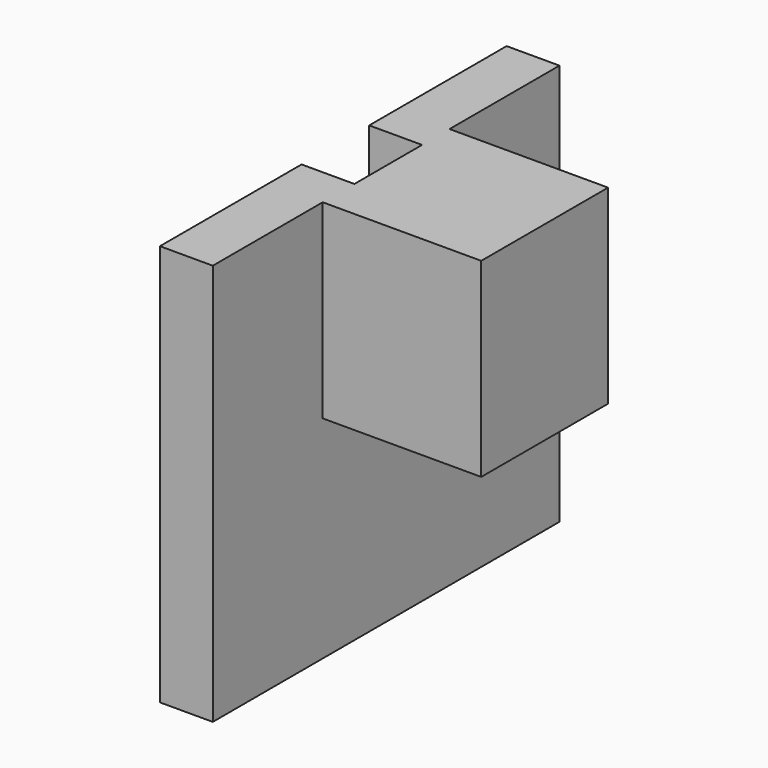
from build123d import *

# Parameters (mm, degrees)
SKETCH047_W     = 3
SKETCH047_H     = 3.6
PAD020_DEPTH    = 3
SKETCH048_W     = 8.2
SKETCH048_H     = 7.6
PAD021_DEPTH    = 1
SKETCH053_W     = 1.6
SKETCH053_H     = 1
POCKET018_DEPTH = 3


with BuildPart() as part:
    # Sketch047 → Pad020 (new body)
    with BuildSketch(Plane.YZ.offset(56.6)):
        with Locations((-2.15, 16)):
            Rectangle(SKETCH047_W, SKETCH047_H)
    extrude(amount=PAD020_DEPTH)

    # Sketch048 (on Face5 of Pad020) → Pad021 (join)
    with BuildSketch(Plane(origin=(56.6, 0, 0), x_dir=(0, 1, 0), z_dir=(-1, 0, 0))):
        with Locations((-2.15, -14)):
            Rectangle(SKETCH048_W, SKETCH048_H)
    extrude(amount=PAD021_DEPTH)

    # Sketch053 (on Face6 of Pad021) → Pocket018 (cut)
    with BuildSketch(Plane(origin=(0, 0, 17.8), x_dir=(0, -1, 0), z_dir=(0, 0, 1))):
        with Locations((2.1, 56.1)):
            Rectangle(SKETCH053_W, SKETCH053_H)
    extrude(amount=-POCKET018_DEPTH, mode=Mode.SUBTRACT)


solid = part.part
